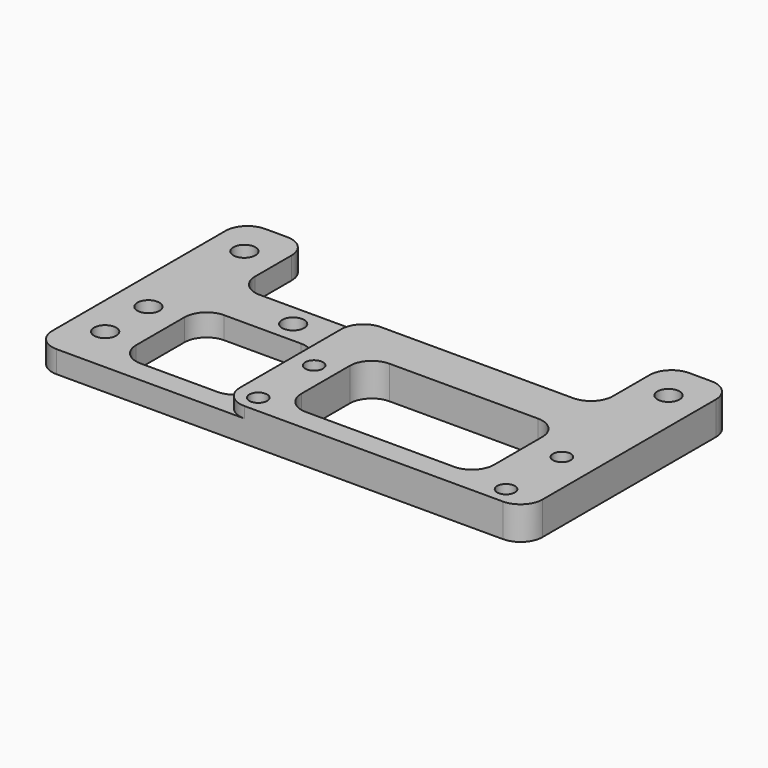
from build123d import *

# Parameters (mm, degrees)
SKETCH_W        = 111.025
SKETCH_H        = 59
SKETCH_R        = 2.5
SKETCH_R_2      = 2
PAD_DEPTH       = 7.5
SKETCH001_W     = 42.5
SKETCH001_H     = 59
POCKET_DEPTH    = 2.5
SKETCH002_W     = 81.025
SKETCH002_H     = 20.325
SKETCH002_W_2   = 43.6
SKETCH002_H_2   = 23.675
SKETCH002_W_3   = 27.425
POCKET001_DEPTH = 7.501
FILLET_R        = 5


with BuildPart() as part:
    # Sketch → Pad (new body)
    with BuildSketch(Plane.XY):
        with Locations((51.1625, 29.5)):
            Rectangle(SKETCH_W, SKETCH_H)
        with Locations((3.15, 22.85)):
            Circle(SKETCH_R, mode=Mode.SUBTRACT)
        with Locations((3.15, 10.6)):
            Circle(SKETCH_R, mode=Mode.SUBTRACT)
        with Locations((27.25, 33.675)):
            Circle(SKETCH_R, mode=Mode.SUBTRACT)
        with Locations((43.075, 19.825)):
            Circle(SKETCH_R_2, mode=Mode.SUBTRACT)
        with Locations((99.175, 19.825)):
            Circle(SKETCH_R_2, mode=Mode.SUBTRACT)
        with Locations((43.075, 4.025)):
            Circle(SKETCH_R_2, mode=Mode.SUBTRACT)
        with Locations((99.175, 4.025)):
            Circle(SKETCH_R_2, mode=Mode.SUBTRACT)
        with Locations((3.15, 50)):
            Circle(SKETCH_R, mode=Mode.SUBTRACT)
        with Locations((99.175, 50)):
            Circle(SKETCH_R, mode=Mode.SUBTRACT)
    extrude(amount=PAD_DEPTH)

    # Sketch001 → Pocket (cut)
    with BuildSketch(Plane.XY.offset(7.5)):
        with Locations((16.9, 29.5)):
            Rectangle(SKETCH001_W, SKETCH001_H)
    extrude(amount=-POCKET_DEPTH, mode=Mode.SUBTRACT)

    # Sketch002 → Pocket001 (cut, through all)
    with BuildSketch(Plane.XY.offset(7.5)):
        with Locations((51.1625, 48.8375)):
            Rectangle(SKETCH002_W, SKETCH002_H)
        with Locations((69.875, 16.8375)):
            Rectangle(SKETCH002_W_2, SKETCH002_H_2)
        with Locations((24.3625, 16.8375)):
            Rectangle(SKETCH002_W_3, SKETCH002_H_2)
    extrude(amount=-POCKET001_DEPTH, mode=Mode.SUBTRACT)

    # Fillet
    fillet_edges = [part.edges().sort_by_distance(p)[0] for p in [
        (106.675, 59, 3.75),
        (91.675, 59, 3.75),
        (91.675, 38.675, 3.75),
        (91.675, 28.675, 3.75),
        (91.675, 5, 3.75),
        (106.675, 0, 3.75),
        (48.075, 5, 3.75),
        (48.075, 28.675, 3.75),
        (38.075, 28.675, 2.5),
        (38.075, 5, 2.5),
        (38.15, 0, 6.25),
        (38.15, 38.675, 6.25),
        (10.65, 5, 2.5),
        (10.65, 28.675, 2.5),
        (10.65, 38.675, 2.5),
        (10.65, 59, 2.5),
        (-4.35, 59, 2.5),
        (-4.35, 0, 2.5),
    ]]
    fillet(fillet_edges, radius=FILLET_R)


solid = part.part
